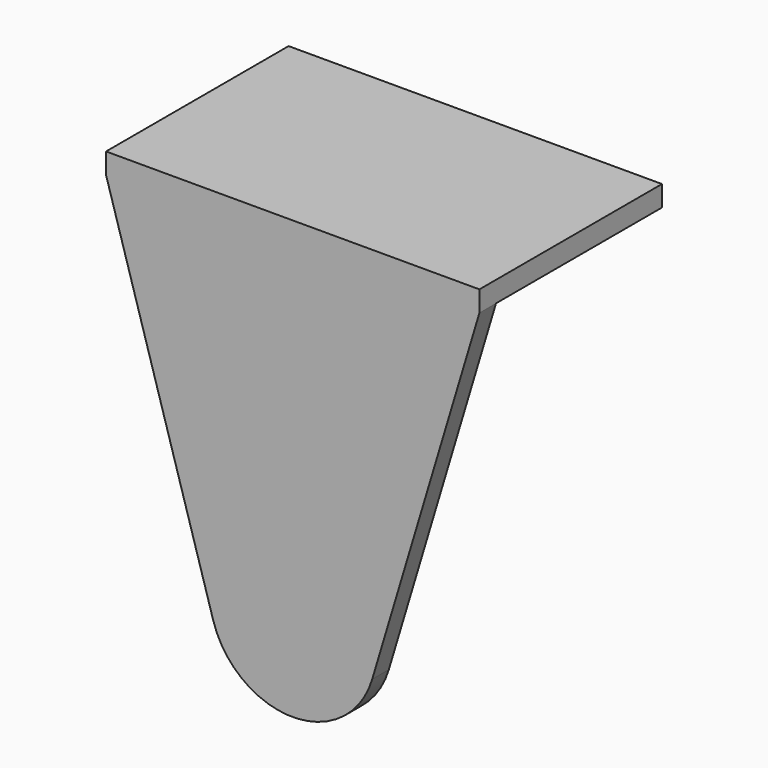
from build123d import *

# Parameters (mm, degrees)
F2_DEPTH      = 1
F3_R          = 4
F4_W          = 18
F4_H          = 1
F5_DEPTH      = 1
F5_DEPTH_BACK = 10


with BuildPart() as f2:
    # F1 (on Front) → F2 (new body)
    with BuildSketch(Plane.XZ):
        Polygon((9, 30), (-9, 30), (0, 0), align=None)
    extrude(amount=F2_DEPTH)

    # F3
    f3_edges = [f2.edges().sort_by_distance(p)[0] for p in [
        (0, -0.5, 0),
    ]]
    fillet(f3_edges, radius=F3_R)

    # F4 (on face) → F5 (join, two sides)
    with BuildSketch(Plane.XZ) as f5_sk:
        with Locations((0, 30.5)):
            Rectangle(F4_W, F4_H)
    extrude(amount=F5_DEPTH)
    extrude(f5_sk.sketch, amount=-F5_DEPTH_BACK)


solid = f2.part
